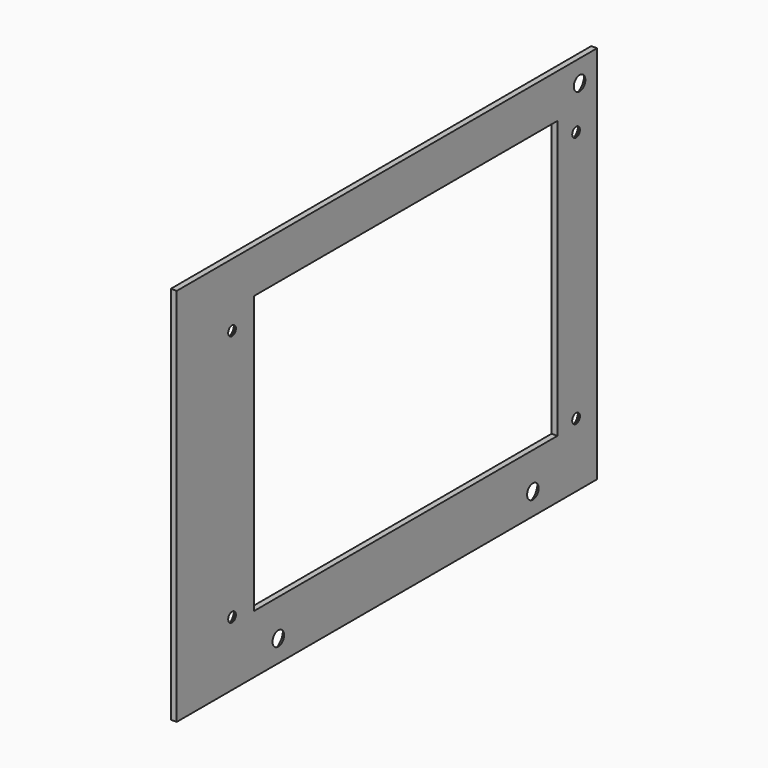
from build123d import *

# Parameters (mm, degrees)
F0_W           = 180
F0_H           = 130
F1_DEPTH       = 2
F3_D           = 3.3
F3_CSINK_D     = 6.72
F3_CSINK_ANGLE = 90
F4_W           = 130
F4_H           = 95
F5_DEPTH       = 2.001
F7_D           = 4.4
F7_CSINK_D     = 8.96
F7_CSINK_ANGLE = 90


with BuildPart() as f1:
    # F0 (on Right) → F1 (new body)
    with BuildSketch(Plane.YZ):
        with Locations((90, 65)):
            Rectangle(F0_W, F0_H)
    extrude(amount=F1_DEPTH)

    # F3 (through all)
    with Locations(Plane(origin=(0, 0, 0), x_dir=(0, -1, 0), z_dir=(-1, 0, 0))):
        with Locations((-171, 108.36), (-171, 22), (-23.68, 22), (-23.68, 108.36)):
            CounterSinkHole(F3_D / 2, F3_CSINK_D / 2, counter_sink_angle=F3_CSINK_ANGLE)

    # F4 (on face) → F5 (cut, through all)
    with BuildSketch(Plane(origin=(0, 0, 0), x_dir=(0, -1, 0), z_dir=(-1, 0, 0))):
        with Locations((-98, 67.5)):
            Rectangle(F4_W, F4_H)
    extrude(amount=-F5_DEPTH, mode=Mode.SUBTRACT)

    # F7 (through all)
    with Locations(Plane(origin=(0, 0, 0), x_dir=(0, -1, 0), z_dir=(-1, 0, 0))):
        with Locations((-152.5, 7.5), (-43.5, 7.5), (-172.5, 122.5)):
            CounterSinkHole(F7_D / 2, F7_CSINK_D / 2, counter_sink_angle=F7_CSINK_ANGLE)


solid = f1.part
